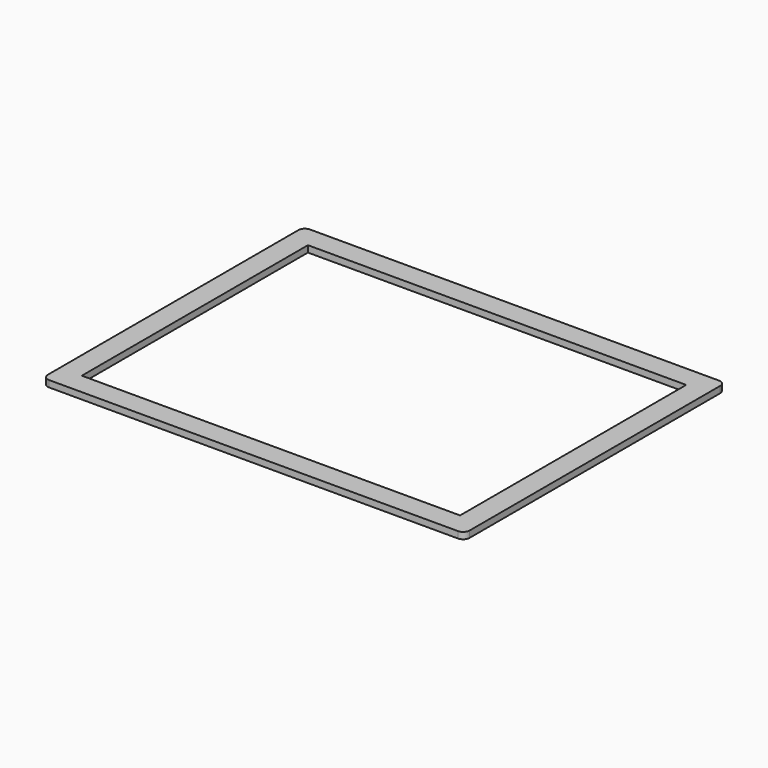
from build123d import *

# Parameters (mm, degrees)
F0_W     = 194
F0_H     = 150
F1_DEPTH = 3
F2_W     = 174
F2_H     = 130
F3_DEPTH = 3
F4_R     = 3


with BuildPart() as f1:
    # F0 (on Top) → F1 (new body)
    with BuildSketch(Plane.XY):
        Rectangle(F0_W, F0_H)
    extrude(amount=F1_DEPTH)

    # F2 (on face) → F3 (cut, through all)
    with BuildSketch(Plane.XY.offset(3)):
        Rectangle(F2_W, F2_H)
    extrude(amount=-F3_DEPTH, mode=Mode.SUBTRACT)

    # F4
    f4_edges = [f1.edges().sort_by_distance(p)[0] for p in [
        (-97, -75, 1.5),
        (97, -75, 1.5),
        (97, 75, 1.5),
        (-97, 75, 1.5),
    ]]
    fillet(f4_edges, radius=F4_R)


solid = f1.part
